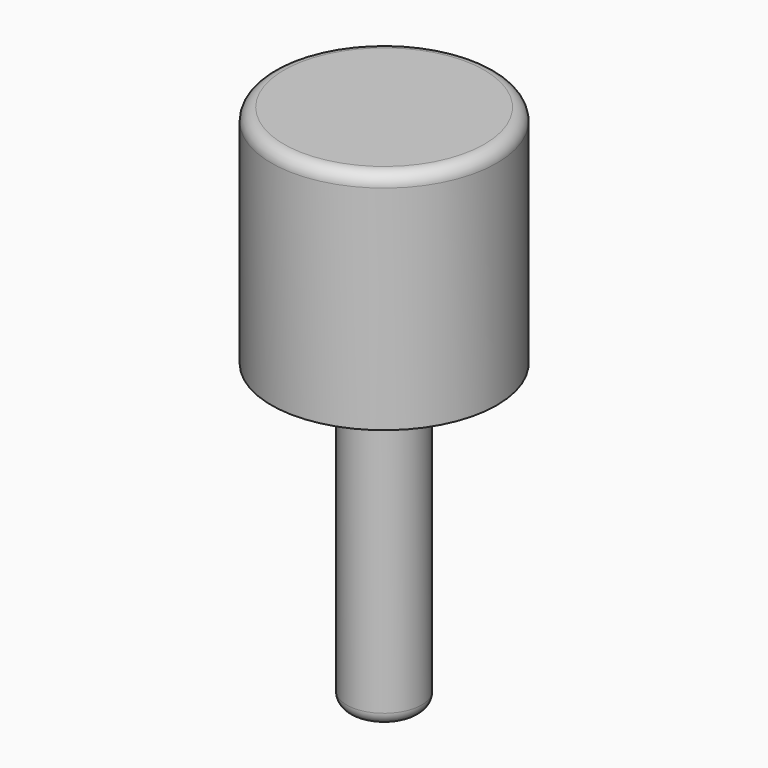
from build123d import *

# Parameters (mm, degrees)
F1_R     = 4.5
F2_DEPTH = 9
F3_R     = 1.5
F4_DEPTH = 12
F0_R     = 0.5


with BuildPart() as f2:
    # F1 (on Top) → F2 (new body)
    with BuildSketch(Plane.XY):
        Circle(F1_R)
    extrude(amount=F2_DEPTH)

    # F3 (on face) → F4 (join)
    with BuildSketch(Plane(origin=(0, 0, 0), x_dir=(1, 0, 0), z_dir=(0, 0, -1))):
        Circle(F3_R)
    extrude(amount=F4_DEPTH)

    # F0
    f0_edges = [f2.edges().sort_by_distance(p)[0] for p in [
        (-4.5, 0, 9),
        (-1.5, 0, -12),
    ]]
    fillet(f0_edges, radius=F0_R)


solid = f2.part
